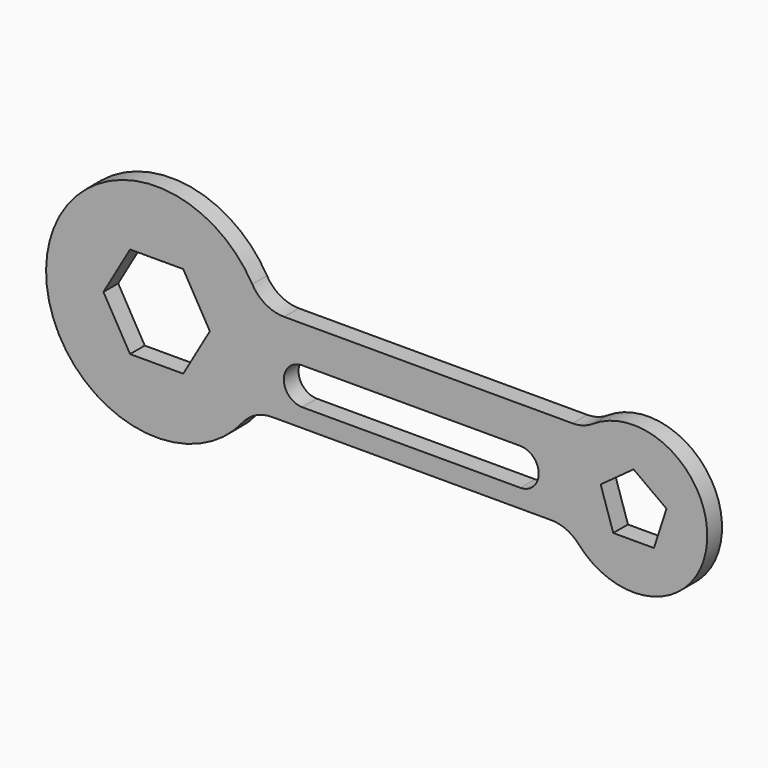
from build123d import *

# Parameters (mm, degrees)
F1_DEPTH = 127


with BuildPart() as f1:
    # F0 (on Front) → F1 (new body)
    with BuildSketch(Plane.XZ):
        with BuildLine():
            ThreePointArc((596.1450494204, -476.7965163849), (719.3422438792, -253.563741897), (762, -2.1860655397))
            ThreePointArc((762, -2.1860655397), (735.7897381461, 195.9488915953), (658.9620439924, 380.4534836151))
            ThreePointArc((658.9620439924, 380.4534836151), (-759.9623968387, 53.5019528413), (596.1450494204, -476.7965163849))
        make_face()
        Polygon((-366.5739865291, 0), (-183.2869932646, 317.4623847008), (183.2869932646, 317.4623847008), (366.5739865291, 0), (183.2869932646, -317.4623847008), (-183.2869932646, -317.4623847008), align=None, mode=Mode.SUBTRACT)
        with BuildLine():
            ThreePointArc((658.9620439924, 380.4534836151), (735.7897381461, 195.9488915953), (762, -2.1860655397))
            ThreePointArc((762, -2.1860655397), (719.3422438792, -253.563741897), (596.1450494204, -476.7965163849))
            ThreePointArc((596.1450494204, -476.7965163849), (684.559759544, -406.1991205893), (794.8600658939, -381))
            Line((794.8600658939, -381), (1765.2984321219, -381))
            Line((1765.2984321219, -381), (2718.9272224804, -381))
            ThreePointArc((2718.9272224804, -381), (2822.6222882582, -403.1307839895), (2908.2476445754, -465.6666666667))
            ThreePointArc((2908.2476445754, -465.6666666667), (2783.0243688995, -62.3088204479), (3006.0809231819, 296.3333333333))
            ThreePointArc((3006.0809231819, 296.3333333333), (2939.0006245773, 264.8135146299), (2865.6771403902, 254))
            Line((2865.6771403902, 254), (1765.2984321219, 254))
            Line((1765.2984321219, 254), (878.6160586565, 254))
            ThreePointArc((878.6160586565, 254), (751.8896114597, 287.871838283), (658.9620439924, 380.4534836151))
        make_face()
        with BuildLine():
            Line((1003.2984321219, 0), (1765.2984321219, 0))
            Line((1765.2984321219, 0), (2506.2098503113, 0))
            ThreePointArc((2506.2098503113, 0), (2596.012411522, -37.1974387893), (2633.2098503113, -127))
            ThreePointArc((2633.2098503113, -127), (2596.012411522, -216.8025612107), (2506.2098503113, -254))
            Line((2506.2098503113, -254), (1003.2984321219, -254))
            ThreePointArc((1003.2984321219, -254), (876.2984321219, -127), (1003.2984321219, 0))
        make_face(mode=Mode.SUBTRACT)
        with BuildLine():
            ThreePointArc((3794.8884887653, -127), (3527.1110487838, 320.6126915741), (3006.0809231819, 296.3333333333))
            ThreePointArc((3006.0809231819, 296.3333333333), (2783.0243688995, -62.3088204479), (2908.2476445754, -465.6666666667))
            ThreePointArc((2908.2476445754, -465.6666666667), (3468.1541103701, -601.5595583531), (3794.8884887653, -127))
        make_face()
        Polygon((3513.8085524036, -53.2692018535), (3427.1328008231, -320.0297355652), (3146.6441767076, -320.0297355652), (3059.9684251271, -53.2692018535), (3286.8884887653, 111.5978748374), align=None, mode=Mode.SUBTRACT)
    extrude(amount=F1_DEPTH)


solid = f1.part
